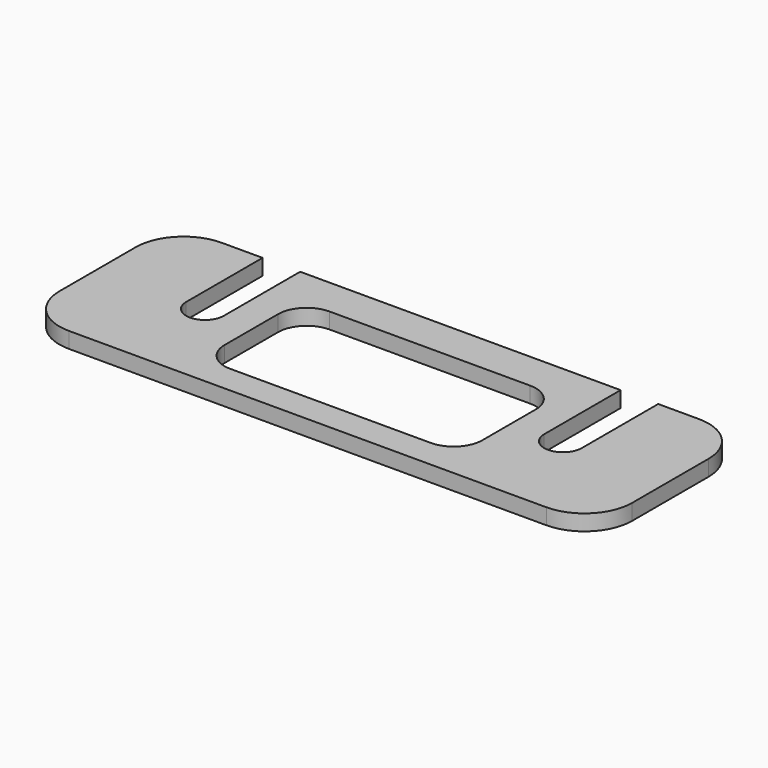
from build123d import *

# Parameters (mm, degrees)
F1_DEPTH = 4.2164


with BuildPart() as f1:
    # F0 (on Top) → F1 (new body)
    with BuildSketch(Plane.XY):
        with BuildLine():
            Line((-128.825, 50.8), (-139.7, 50.8))
            ThreePointArc((-139.7, 50.8), (-148.680256, 47.080256), (-152.4, 38.1))
            Line((-152.4, 38.1), (-152.4, 12.7))
            ThreePointArc((-152.4, 12.7), (-148.680256, 3.719744), (-139.7, 0))
            Line((-139.7, 0), (-12.7, 0))
            ThreePointArc((-12.7, 0), (-3.719744, 3.719744), (0, 12.7))
            Line((0, 12.7), (0, 38.1))
            ThreePointArc((0, 38.1), (-3.719744, 47.080256), (-12.7, 50.8))
            Line((-12.7, 50.8), (-23.575, 50.8))
            Line((-23.575, 50.8), (-23.575, 25.4))
            ThreePointArc((-23.575, 25.4), (-28.575, 20.4), (-33.575, 25.4))
            Line((-33.575, 25.4), (-33.575, 50.8))
            Line((-33.575, 50.8), (-118.825, 50.8))
            Line((-118.825, 50.8), (-118.825, 25.4))
            ThreePointArc((-118.825, 25.4), (-123.825, 20.4), (-128.825, 25.4))
            Line((-128.825, 25.4), (-128.825, 50.8))
        make_face()
        with BuildLine():
            ThreePointArc((-110.49, 33.02), (-108.258154, 38.408154), (-102.87, 40.64))
            Line((-102.87, 40.64), (-49.53, 40.64))
            ThreePointArc((-49.53, 40.64), (-44.141846, 38.408154), (-41.91, 33.02))
            Line((-41.91, 33.02), (-41.91, 15.24))
            ThreePointArc((-41.91, 15.24), (-44.141846, 9.851846), (-49.53, 7.62))
            Line((-49.53, 7.62), (-102.87, 7.62))
            ThreePointArc((-102.87, 7.62), (-108.258154, 9.851846), (-110.49, 15.24))
            Line((-110.49, 15.24), (-110.49, 33.02))
        make_face(mode=Mode.SUBTRACT)
    extrude(amount=F1_DEPTH)


solid = f1.part
